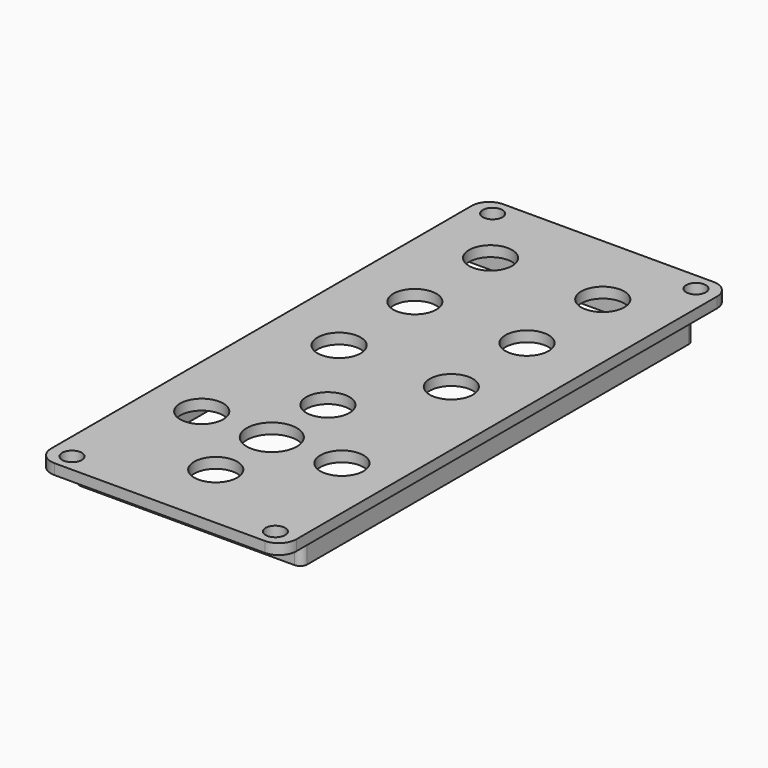
from build123d import *

# Parameters (mm, degrees)
SKETCH046_W   = 70
SKETCH046_H   = 160
SKETCH046_R   = 2.8
SKETCH046_R_2 = 6.15
SKETCH046_R_3 = 7.15
PAD021_DEPTH  = 3
SKETCH047_W   = 65
SKETCH047_H   = 140
SKETCH047_W_2 = 62
SKETCH047_H_2 = 137
PAD022_DEPTH  = 7
FILLET018_R   = 1
FILLET019_R   = 5
FILLET020_R   = 2


with BuildPart() as part:
    # Sketch046 → Pad021 (new body)
    with BuildSketch(Plane.XY):
        Rectangle(SKETCH046_W, SKETCH046_H)
        with Locations((-29, 75)):
            Circle(SKETCH046_R, mode=Mode.SUBTRACT)
        with Locations((29, 75)):
            Circle(SKETCH046_R, mode=Mode.SUBTRACT)
        with Locations((-29, -75)):
            Circle(SKETCH046_R, mode=Mode.SUBTRACT)
        with Locations((29, -75)):
            Circle(SKETCH046_R, mode=Mode.SUBTRACT)
        with Locations((0, -60)):
            Circle(SKETCH046_R_2, mode=Mode.SUBTRACT)
        with Locations((0, -20)):
            Circle(SKETCH046_R_2, mode=Mode.SUBTRACT)
        with Locations((0, -40)):
            Circle(SKETCH046_R_3, mode=Mode.SUBTRACT)
        with Locations((20, -40)):
            Circle(SKETCH046_R_2, mode=Mode.SUBTRACT)
        with Locations((-20, -40)):
            Circle(SKETCH046_R_2, mode=Mode.SUBTRACT)
        with Locations((-16, 58)):
            Circle(SKETCH046_R_2, mode=Mode.SUBTRACT)
        with Locations((16, 58)):
            Circle(SKETCH046_R_2, mode=Mode.SUBTRACT)
        with Locations((-16, 31)):
            Circle(SKETCH046_R_2, mode=Mode.SUBTRACT)
        with Locations((16, 31)):
            Circle(SKETCH046_R_2, mode=Mode.SUBTRACT)
        with Locations((-16, 4)):
            Circle(SKETCH046_R_2, mode=Mode.SUBTRACT)
        with Locations((16, 4)):
            Circle(SKETCH046_R_2, mode=Mode.SUBTRACT)
    extrude(amount=PAD021_DEPTH)

    # Sketch047 (on Face20 of Pad021) → Pad022 (join)
    with BuildSketch(Plane(origin=(0, 0, 0), x_dir=(1, 0, 0), z_dir=(0, 0, -1))):
        Rectangle(SKETCH047_W, SKETCH047_H)
        Rectangle(SKETCH047_W_2, SKETCH047_H_2, mode=Mode.SUBTRACT)
    extrude(amount=PAD022_DEPTH)

    # Fillet018
    fillet018_edges = [part.edges().sort_by_distance(p)[0] for p in [
        (0, 68.5, 0),
        (31, 0, 0),
        (-31, 0, 0),
        (0, -68.5, 0),
    ]]
    fillet(fillet018_edges, radius=FILLET018_R)

    # Fillet019
    fillet019_edges = [part.edges().sort_by_distance(p)[0] for p in [
        (-35, 80, 1.5),
        (35, 80, 1.5),
        (-35, -80, 1.5),
        (35, -80, 1.5),
    ]]
    fillet(fillet019_edges, radius=FILLET019_R)

    # Fillet020
    fillet020_edges = [part.edges().sort_by_distance(p)[0] for p in [
        (-32.5, -70, -3.5),
        (32.5, -70, -3.5),
        (-32.5, 70, -3.5),
        (32.5, 70, -3.5),
    ]]
    fillet(fillet020_edges, radius=FILLET020_R)


solid = part.part
